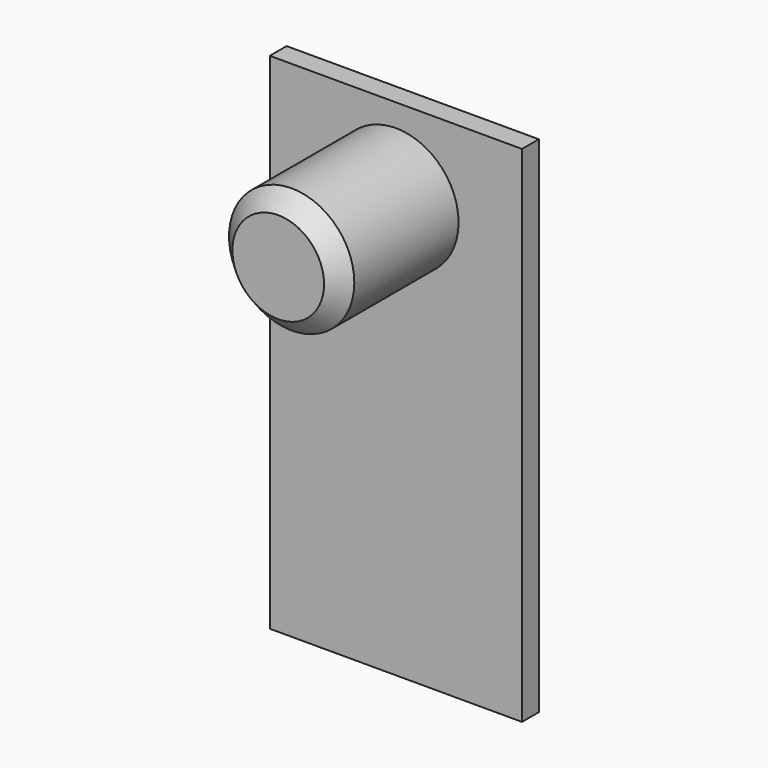
from build123d import *

# Parameters (mm, degrees)
F1_R     = 18.923
F2_DEPTH = 50.8
F0_W     = 76.2
F0_H     = 152.4
F3_DEPTH = 6.35
F4_SIZE  = 5.08


with BuildPart() as f2:
    # F1 (on face) → F2 (new body)
    with BuildSketch(Plane.XZ):
        with Locations((0, 50.433476)):
            Circle(F1_R)
    extrude(amount=F2_DEPTH)

    # F0 (on Front) → F3 (join)
    with BuildSketch(Plane.XZ):
        Rectangle(F0_W, F0_H)
    extrude(amount=F3_DEPTH)

    # F4
    f4_edges = [f2.edges().sort_by_distance(p)[0] for p in [
        (-18.923, -50.8, 50.433476),
    ]]
    chamfer(f4_edges, length=F4_SIZE)


solid = f2.part
